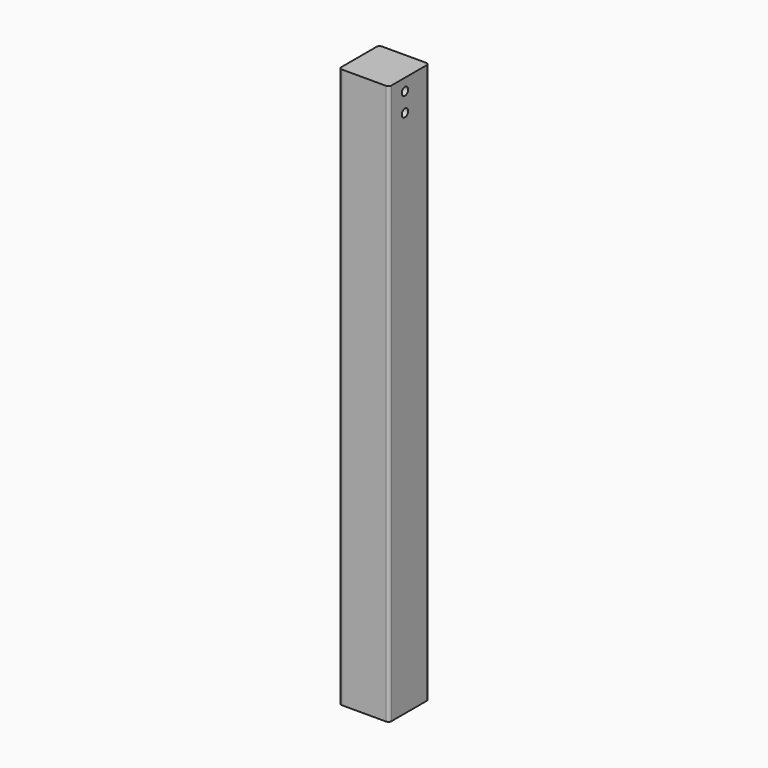
from build123d import *

# Parameters (mm, degrees)
F1_DEPTH = 560
F2_R     = 4
F4_DEPTH = 16
F3_R     = 4
F5_DEPTH = 16


with BuildPart() as f1:
    # F0 (on Top) → F1 (new body)
    with BuildSketch(Plane.XY):
        with BuildLine():
            ThreePointArc((25, 22), (24.12132, 24.12132), (22, 25))
            Line((22, 25), (-22, 25))
            ThreePointArc((-22, 25), (-24.12132, 24.12132), (-25, 22))
            Line((-25, 22), (-25, -22))
            ThreePointArc((-25, -22), (-24.12132, -24.12132), (-22, -25))
            Line((-22, -25), (22, -25))
            ThreePointArc((22, -25), (24.12132, -24.12132), (25, -22))
            Line((25, -22), (25, 22))
        make_face()
    extrude(amount=-F1_DEPTH)

    # F2 (on face) → F4 (cut)
    with BuildSketch(Plane.YZ.offset(25)):
        with Locations((-5, -12)):
            Circle(F2_R)
        with Locations((-5, -31)):
            Circle(F2_R)
    extrude(amount=-F4_DEPTH, mode=Mode.SUBTRACT)

    # F3 (on face) → F5 (cut)
    with BuildSketch(Plane(origin=(0, 25, 0), x_dir=(-1, 0, 0), z_dir=(0, 1, 0))):
        with Locations((5, -12)):
            Circle(F3_R)
        with Locations((5, -31)):
            Circle(F3_R)
    extrude(amount=-F5_DEPTH, mode=Mode.SUBTRACT)


solid = f1.part
